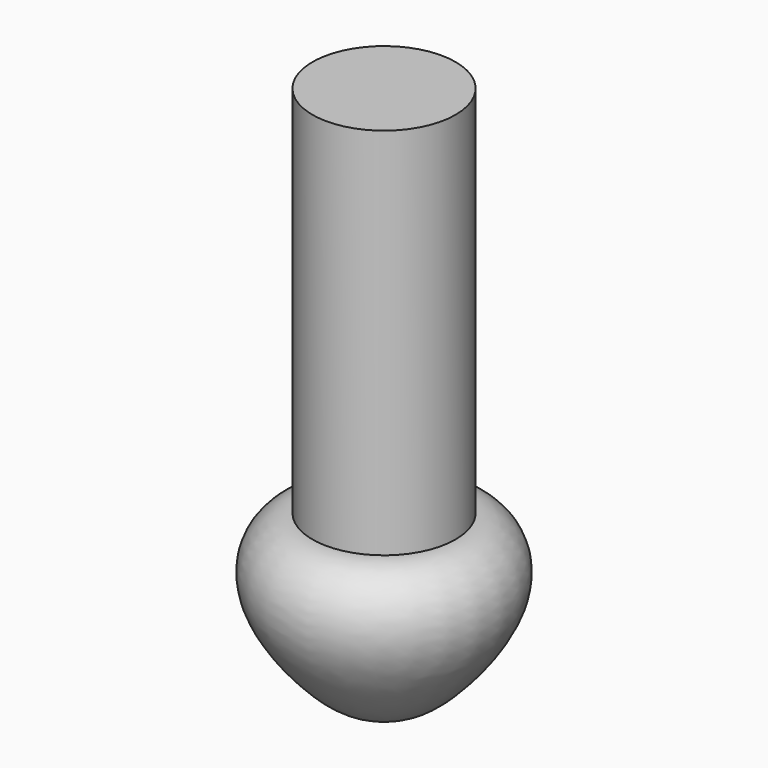
from build123d import *

# Parameters (mm, degrees)
F4_R     = 40
F5_DEPTH = 209


with BuildPart() as f2:
    # F1 (on Right) → F2 (revolve)
    with BuildSketch(Plane.YZ):
        with BuildLine():
            add(Edge.make_bspline(
                [(-10.0599536672, 14.970196411), (-11.9665832002, 23.382581067), (-15.3058834464, 28.4632306646), (-27.7722455242, 39.8229803307), (-40.092240131, 42.3470285538), (-51.5353895707, 39.405810423), (-61.7111502135, 29.0227580066), (-66.3297427252, 12.2002344417), (-59.0959958254, -17.174356253), (2.8707949144, -80.5672922702), (-6.1797198054, -2.1500774732), (-10.0599536672, 14.970196411)],
                knots=[0, 0, 0, 0, 0.0913927604, 0.1802918407, 0.2607443701, 0.3376960107, 0.4227614538, 0.5132590452, 0.6468054212, 0.814004096, 1, 1, 1, 1], degree=3))
        make_face()
    revolve(axis=Axis((0, 0, 0), (0, 0, 1)))


with BuildPart() as f5:
    # F4 (on offset) → F5 (new body)
    with BuildSketch(Plane.XY.offset(42)):
        Circle(F4_R)
    extrude(amount=F5_DEPTH)


solid = Compound([f2.part, f5.part])
